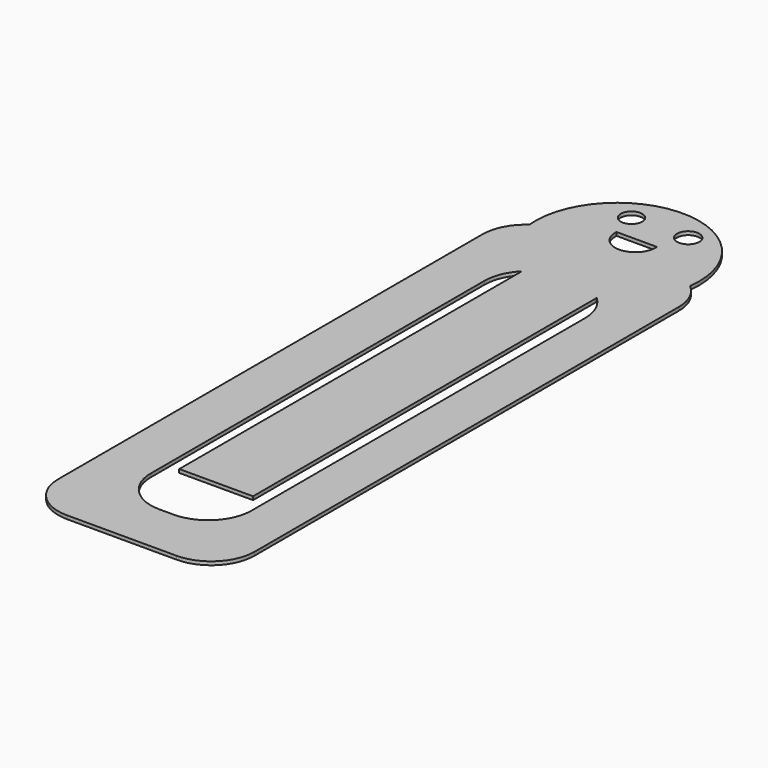
from build123d import *

# Parameters (mm, degrees)
F0_R     = 1.569142
F0_R_2   = 1.625806
F1_DEPTH = 0.508


with BuildPart() as f1:
    # F0 (on Top) → F1 (new body)
    with BuildSketch(Plane.XY):
        with BuildLine():
            Line((-6.436094, 45.351289), (-9.320162, 45.351289))
            ThreePointArc((-9.320162, 45.351289), (-11.235743, 45.055465), (-12.972845, 44.195556))
            ThreePointArc((-12.972845, 44.195556), (-14.955631, 41.927717), (-15.670162, 39.001289))
            Line((-15.670162, 39.001289), (-15.670162, -38.632582))
            ThreePointArc((-15.670162, -38.632582), (-13.81029, -43.12271), (-9.320162, -44.982582))
            Line((-9.320162, -44.982582), (6.739195, -44.982582))
            ThreePointArc((6.739195, -44.982582), (11.229323, -43.12271), (13.089195, -38.632582))
            Line((13.089195, -38.632582), (13.089195, 39.001289))
            ThreePointArc((13.089195, 39.001289), (12.505726, 41.660164), (10.862544, 43.830419))
            ThreePointArc((10.862544, 43.830419), (8.93664, 44.958951), (6.739195, 45.351289))
            Line((6.739195, 45.351289), (4.366797, 45.351289))
            Line((4.366797, 45.351289), (-6.436094, 45.351289))
        make_face()
        with BuildLine():
            Line((0.10242, -37.239678), (-1.945966, -37.239678))
            ThreePointArc((-1.945966, -37.239678), (-6.436094, -35.379806), (-8.295966, -30.889678))
            Line((-8.295966, -30.889678), (-8.295966, 30.152257))
            ThreePointArc((-8.295966, 30.152257), (-7.812601, 32.582297), (-6.436094, 34.642385))
            Line((-6.436094, 34.642385), (-6.436094, 26.376916))
            Line((-6.436094, 26.376916), (-6.436094, -28.02352))
            Line((-6.436094, -28.02352), (4.366797, -28.02352))
            Line((4.366797, -28.02352), (4.366797, 26.376916))
            Line((4.366797, 26.376916), (4.366797, 34.642385))
            Line((4.366797, 34.642385), (4.366797, 34.857317))
            ThreePointArc((4.366797, 34.857317), (4.441516, 34.7885), (4.515124, 34.718497))
            ThreePointArc((4.515124, 34.718497), (5.948067, 32.632361), (6.45242, 30.152257))
            Line((6.45242, 30.152257), (6.45242, -30.889678))
            ThreePointArc((6.45242, -30.889678), (4.592548, -35.379806), (0.10242, -37.239678))
        make_face(mode=Mode.SUBTRACT)
        with BuildLine():
            ThreePointArc((-12.972845, 44.195556), (-11.235743, 45.055465), (-9.320162, 45.351289))
            Line((-9.320162, 45.351289), (-6.436094, 45.351289))
            Line((-6.436094, 45.351289), (4.366797, 45.351289))
            Line((4.366797, 45.351289), (6.739195, 45.351289))
            ThreePointArc((6.739195, 45.351289), (8.93664, 44.958951), (10.862544, 43.830419))
            ThreePointArc((10.862544, 43.830419), (-0.850933, 57.343891), (-12.972845, 44.195556))
        make_face()
        with Locations((-4.932173, 52.845966)):
            Circle(F0_R, mode=Mode.SUBTRACT)
        with BuildLine():
            ThreePointArc((1.846396, 49.016528), (-1.102735, 45.801074), (-4.051865, 49.016528))
            Line((-4.051865, 49.016528), (1.846396, 49.016528))
        make_face(mode=Mode.SUBTRACT)
        with Locations((3.237295, 53.016163)):
            Circle(F0_R_2, mode=Mode.SUBTRACT)
    extrude(amount=F1_DEPTH)


solid = f1.part
